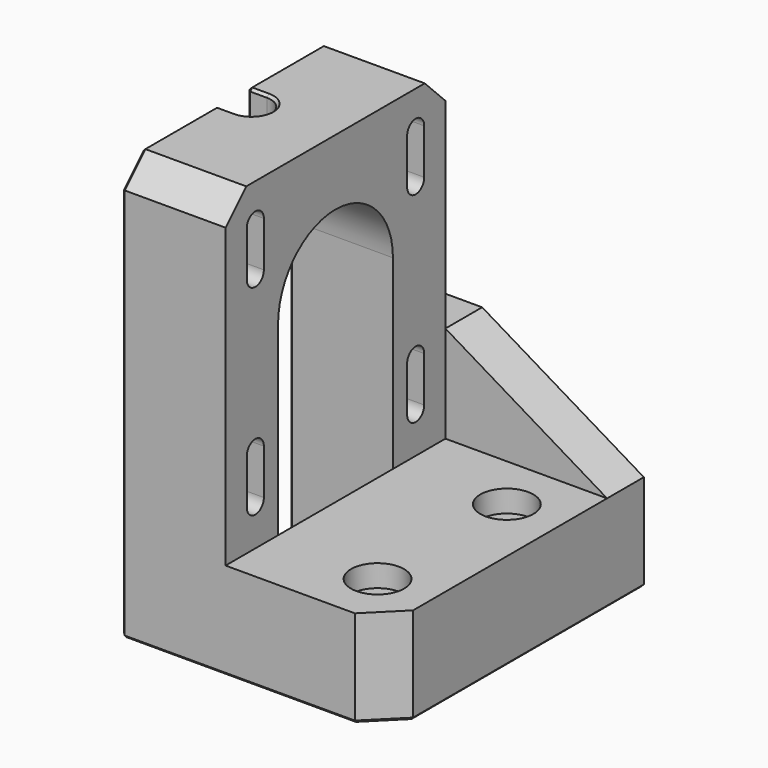
from build123d import *

# Parameters (mm, degrees)
SKETCH_W              = 16
SKETCH_H              = 50
PAD_DEPTH             = 65
POCKET_DEPTH          = 16.001
SKETCH002_W           = 50
SKETCH002_H           = 15
PAD001_DEPTH          = 25
POCKET001_DEPTH       = 16
HOLE_D                = 3.2
HOLE_DEPTH            = 25
HOLE_CBORE_D          = 8.2
HOLE_CBORE_DEPTH      = 3.4
SKETCH013_W           = 7.5
SKETCH013_H           = 50
POCKET002_DEPTH       = 16.001
PAD006_DEPTH          = 7.5
SKETCH039_R           = 1.55
POCKET022002_DEPTH    = 25
SKETCH040_R           = 2
POCKET022003_DEPTH    = 6
POCKET022004_DEPTH    = 65.001
CHAMFER_SIZE          = 4
CHAMFER003015003_SIZE = 5
CHAMFER003015004_SIZE = 0.4


with BuildPart() as part:
    # Sketch → Pad (new body)
    with BuildSketch(Plane.XY):
        with Locations((-12, 3.75)):
            Rectangle(SKETCH_W, SKETCH_H)
    extrude(amount=PAD_DEPTH)

    # Sketch001 (on Face4 of Pad) → Pocket (cut, through all)
    with BuildSketch(Plane(origin=(-20, 0, 0), x_dir=(0, -1, 0), z_dir=(-1, 0, 0))):
        with BuildLine():
            ThreePointArc((11.1, 43.75), (0, 54.85), (-11.1, 43.75))
            Line((-11.1, 43.75), (-11.1, 36.75))
            ThreePointArc((-11.1, 36.75), (0, 25.65), (11.1, 36.75))
            Line((11.1, 43.75), (11.1, 36.75))
        make_face()
        with BuildLine():
            ThreePointArc((-13.85, 59.25), (-15.5, 60.9), (-17.15, 59.25))
            Line((-17.15, 59.25), (-17.15, 52.25))
            ThreePointArc((-17.15, 52.25), (-15.5, 50.6), (-13.85, 52.25))
            Line((-13.85, 59.25), (-13.85, 52.25))
        make_face()
        with BuildLine():
            ThreePointArc((17.15, 59.25), (15.5, 60.9), (13.85, 59.25))
            Line((13.85, 59.25), (13.85, 52.25))
            ThreePointArc((13.85, 52.25), (15.5, 50.6), (17.15, 52.25))
            Line((17.15, 59.25), (17.15, 52.25))
        make_face()
        with BuildLine():
            ThreePointArc((-13.85, 28.25), (-15.5, 29.9), (-17.15, 28.25))
            Line((-17.15, 28.25), (-17.15, 21.25))
            ThreePointArc((-17.15, 21.25), (-15.5, 19.6), (-13.85, 21.25))
            Line((-13.85, 28.25), (-13.85, 21.25))
        make_face()
        with BuildLine():
            ThreePointArc((17.15, 28.25), (15.5, 29.9), (13.85, 28.25))
            Line((13.85, 28.25), (13.85, 21.25))
            ThreePointArc((13.85, 21.25), (15.5, 19.6), (17.15, 21.25))
            Line((17.15, 28.25), (17.15, 21.25))
        make_face()
    extrude(amount=-POCKET_DEPTH, mode=Mode.SUBTRACT)

    # Sketch002 (on Face3 of Pocket) → Pad001 (join)
    with BuildSketch(Plane.YZ.offset(-4)):
        with Locations((3.75, 7.5)):
            Rectangle(SKETCH002_W, SKETCH002_H)
    extrude(amount=PAD001_DEPTH)

    # Sketch011 (on Face2 of Pad001) → Pocket001 (cut)
    with BuildSketch(Plane(origin=(-20, 0, 0), x_dir=(0, -1, 0), z_dir=(-1, 0, 0))):
        with BuildLine():
            Line((-11.1, 36.75), (-11.1, 0))
            Line((-11.1, 0), (11.1, 0))
            Line((11.1, 0), (11.1, 36.75))
            ThreePointArc((-11.1, 36.75), (0, 25.65), (11.1, 36.75))
        make_face()
    extrude(amount=-POCKET001_DEPTH, mode=Mode.SUBTRACT)

    # Hole
    with Locations(Plane.XY.offset(15)):
        with Locations((12.5, 12.5), (12.5, -12.5)):
            CounterBoreHole(HOLE_D / 2, HOLE_CBORE_D / 2, HOLE_CBORE_DEPTH, depth=HOLE_DEPTH)

    # Sketch013 (on Face4 of Hole) → Pocket002 (cut, through all)
    with BuildSketch(Plane.YZ.offset(-4)):
        with Locations((25, 40)):
            Rectangle(SKETCH013_W, SKETCH013_H)
    extrude(amount=-POCKET002_DEPTH, mode=Mode.SUBTRACT)

    # Sketch014 (on Face1 of Pocket002) → Pad006 (join)
    with BuildSketch(Plane(origin=(0, 28.75, 0), x_dir=(-1, 0, 0), z_dir=(0, 1, 0))):
        Polygon((-21, 15), (4, 30), (20, 30), (20, 15), align=None)
    extrude(amount=-PAD006_DEPTH)

    # Sketch039 (on Face35 of Pad006) → Pocket022002 (cut)
    with BuildSketch(Plane(origin=(-20, 0, 0), x_dir=(0, -1, 0), z_dir=(-1, 0, 0))):
        with Locations((-23.25, 10)):
            Circle(SKETCH039_R)
        with Locations((-16.25, 10)):
            Circle(SKETCH039_R)
    extrude(amount=-POCKET022002_DEPTH, mode=Mode.SUBTRACT)

    # Sketch040 (on Face2 of Pocket022002) → Pocket022003 (cut)
    with BuildSketch(Plane(origin=(-20, 0, 0), x_dir=(0, -1, 0), z_dir=(-1, 0, 0))):
        with Locations((-23.25, 10)):
            Circle(SKETCH040_R)
        with Locations((-16.25, 10)):
            Circle(SKETCH040_R)
    extrude(amount=-POCKET022003_DEPTH, mode=Mode.SUBTRACT)

    # Sketch041 (on Face8 of Pocket022003) → Pocket022004 (cut, through all)
    with BuildSketch(Plane.XY.offset(65)):
        with BuildLine():
            ThreePointArc((-17, -3), (-14, 0), (-17, 3))
            Line((-17, 3), (-20, 3))
            Line((-20, 3), (-20, -3))
            Line((-20, -3), (-17, -3))
        make_face()
    extrude(amount=-POCKET022004_DEPTH, mode=Mode.SUBTRACT)

    # Chamfer
    chamfer_edges = [part.edges().sort_by_distance(p)[0] for p in [
        (-12, -21.25, 65),
        (-12, 21.25, 65),
    ]]
    chamfer(chamfer_edges, length=CHAMFER_SIZE)

    # Chamfer003015003
    chamfer003015003_edges = [part.edges().sort_by_distance(p)[0] for p in [
        (21, -21.25, 7.5),
    ]]
    chamfer(chamfer003015003_edges, length=CHAMFER003015003_SIZE)

    # Chamfer003015004
    chamfer003015004_edges = [part.edges().sort_by_distance(p)[0] for p in [
        (-20, 21.25, 45.5),
        (-20, 19.25, 63),
        (-20, 25, 30),
        (-20, 10.125, 65),
        (-20, 28.75, 15),
        (-20, 3, 59.718454),
        (-20, 19.925, 0),
        (-20, 8.846186, 50.454849),
        (-20, 11.1, 21.875),
        (-20, 15.5, 60.9),
        (-20, 13.85, 55.75),
        (-20, 17.15, 55.75),
        (-20, 15.5, 50.6),
        (-20, 15.5, 29.9),
        (-20, 13.85, 24.75),
        (-20, 17.15, 24.75),
        (-20, 15.5, 19.6),
        (-20, 25.25, 10),
        (-20, 18.25, 10),
        (-20, -10.125, 65),
        (-20, -19.25, 63),
        (-20, -3, 59.718454),
        (-20, -21.25, 30.5),
        (-20, -8.846186, 50.454849),
        (-20, -16.175, 0),
        (-20, -11.1, 21.875),
        (-20, -15.5, 60.9),
        (-20, -17.15, 55.75),
        (-20, -13.85, 55.75),
        (-20, -15.5, 50.6),
        (-20, -15.5, 29.9),
        (-20, -17.15, 24.75),
        (-20, -13.85, 24.75),
        (-20, -15.5, 19.6),
        (-18.5, 3, 65),
        (-14, 0, 65),
        (-18.5, -3, 65),
        (-18.5, -3, 54.436908),
        (-14.878805, -2.121446, 54.645388),
        (-14.878805, 2.121446, 54.645388),
        (-18.5, 3, 54.436908),
        (-12, -11.1, 0),
        (-4, 0, 0),
        (-12, 11.1, 0),
        (-12, 28.75, 30),
        (8.5, 28.75, 22.5),
        (21, 28.75, 7.5),
        (0.5, 28.75, 0),
        (-2, -21.25, 0),
        (18.5, -18.75, 0),
        (21, 6.25, 0),
        (-14, 24.8, 10),
        (-14, 17.8, 10),
    ]]
    chamfer(chamfer003015004_edges, length=CHAMFER003015004_SIZE)


solid = part.part
